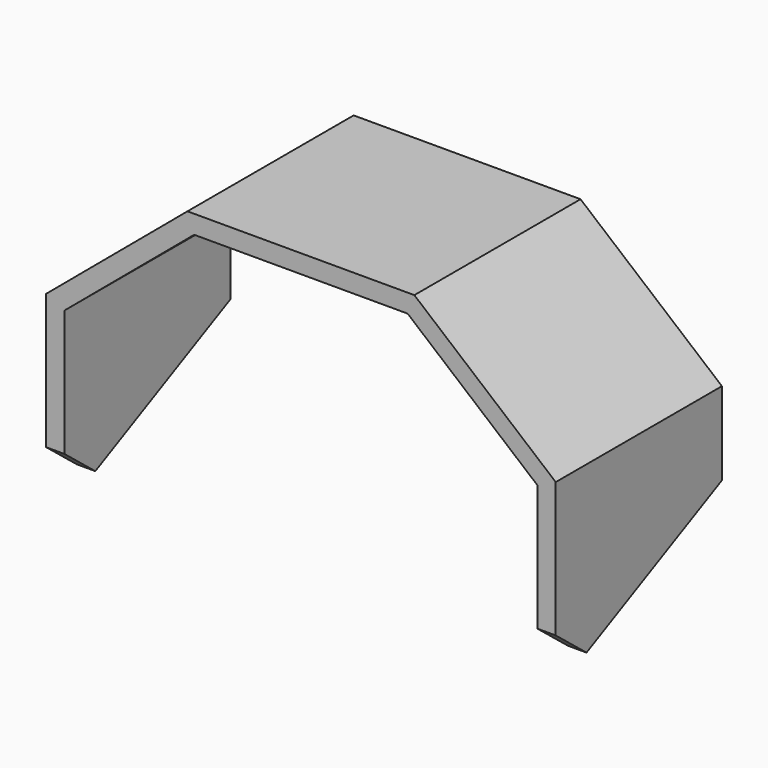
from build123d import *

# Parameters (mm, degrees)
F1_DEPTH = 135
F3_DEPTH = 400


with BuildPart() as f1:
    # F0 (on Front) → F1 (new body)
    with BuildSketch(Plane.XZ):
        Polygon((-153.604444, 9.724525), (-69.367643, 80.407594), (69.367643, 80.407594), (153.604444, 9.724525), (153.604444, -92.407594), (165.604444, -92.407594), (165.604444, 15.320217), (73.735286, 92.407594), (-73.735286, 92.407594), (-165.604444, 15.320217), (-165.604444, -92.407594), (-153.604444, -92.407594), align=None)
    extrude(amount=-F1_DEPTH)

    # F2 (on face) → F3 (cut)
    with BuildSketch(Plane.YZ.offset(165.604444)):
        Polygon((0, -92.407594), (25, -92.407594), (0, -72.407594), align=None)
        Polygon((135, -38.543689), (25, -92.407594), (135, -92.407594), align=None)
    extrude(amount=-F3_DEPTH, mode=Mode.SUBTRACT)


solid = f1.part
